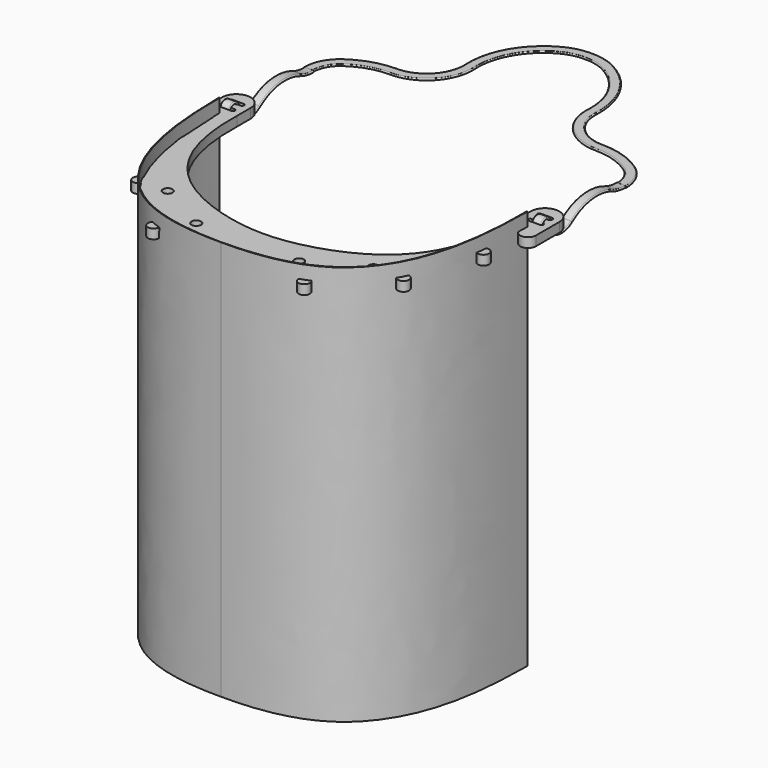
from build123d import *

# Parameters (mm, degrees)
PAD002_DEPTH    = 210
PAD_DEPTH       = 5.0038
POCKET_DEPTH    = 5.0048
SKETCH137_R     = 3
PAD003_DEPTH    = 5.0038
SKETCH_R        = 2.5
POCKET001_DEPTH = 5.0048


with BuildPart() as body002:
    # Sketch140 → Pad002 (new body)
    with BuildSketch(Plane.XY):
        with BuildLine():
            Line((-81, 99.342728), (-80.626823, 99.342728))
            add(Edge.make_bspline(
                [(-80.626823, 99.342728), (-80.850729, 69.137091), (-77.239233, 38.134273), (-65.453101, 12.273247), (-44.560585, 0), (0, -0.267526)],
                knots=[0, 0, 0, 0, 0, 0, 1, 1, 1, 1, 1, 1], degree=5))
            Line((0, -0.267526), (0, -0.467526))
            add(Edge.make_bspline(
                [(-81, 99.342728), (-80.7194, 75), (-76.49971, 47.584915), (-65, 24), (-48.451324, 8), (-24.26185, 0.239096), (-7.207305, -0.527014), (0, -0.467526)],
                knots=[0, 0, 0, 0, 0.2, 0.4, 0.6, 0.8, 1, 1, 1, 1], degree=3))
        make_face()
    extrude(amount=-PAD002_DEPTH)


with BuildPart() as body002_1:
    # Body002 placement: moved
    add(body002.part.moved(Location((0, 0, 12))))


with BuildPart() as fusion001:
    # Part__Mirroring001: instance of Body002
    add(body002_1.part.mirror(Plane(origin=(0, 0, 0), x_dir=(0, -1, 0), z_dir=(1, 0, 0))))

    # Fusion001: union Body002
    add(body002_1.part)


with BuildPart() as body:
    # Sketch135 → Pad (new body)
    with BuildSketch(Plane.XY):
        with BuildLine():
            add(Edge.make_bspline(
                [(-73.5, 101.839707), (-74.771, 49.44), (-49.529, 37.339707), (-22.686, 26.780106), (0, 26.839707)],
                knots=[0, 0, 0, 0, 0, 1, 1, 1, 1, 1], degree=4))
            Line((0, 26.839707), (0, 0))
            add(Edge.make_bspline(
                [(0, 0), (-24.669, -0.204), (-39, 6.04)],
                knots=[0, 0, 0, 1, 1, 1], degree=2))
            add(Edge.make_bspline(
                [(-39, 6.04), (-72.6, 18.986), (-79.11, 71.198)],
                knots=[0, 0, 0, 1, 1, 1], degree=2))
            add(Edge.make_bspline(
                [(-79.11, 71.198), (-80.407, 95.361753)],
                knots=[0, 0, 1, 1], degree=1))
            ThreePointArc((-80.407, 95.361753), (-84.471, 91.297753), (-88.535, 95.361753))
            Line((-88.535, 95.361753), (-88.535, 110.839707))
            ThreePointArc((-88.535, 110.839707), (-81.0175, 118.357207), (-73.5, 110.839707))
            Line((-73.5, 110.839707), (-73.5, 101.839707))
        make_face()
    extrude(amount=PAD_DEPTH)

    # Sketch136 (on Face11 of Pad) → Pocket (cut, through all)
    with BuildSketch(Plane.XY.offset(5.0038)):
        with BuildLine():
            ThreePointArc((-84.0175, 111.839707), (-85.0175, 110.839707), (-84.0175, 109.839707))
            Line((-84.0175, 109.839707), (-78.0175, 109.839707))
            ThreePointArc((-78.0175, 109.839707), (-77.0175, 110.839707), (-78.0175, 111.839707))
            Line((-84.0175, 111.839707), (-78.0175, 111.839707))
        make_face()
        with BuildLine():
            ThreePointArc((-84.0175, 105.839707), (-85.0175, 104.839707), (-84.0175, 103.839707))
            Line((-84.0175, 103.839707), (-78.0175, 103.839707))
            ThreePointArc((-78.0175, 103.839707), (-77.0175, 104.839707), (-78.0175, 105.839707))
            Line((-84.0175, 105.839707), (-78.0175, 105.839707))
        make_face()
    extrude(amount=-POCKET_DEPTH, mode=Mode.SUBTRACT)

    # Sketch137 → Pad003 (join)
    with BuildSketch(Plane.XY.offset(5.0038)):
        with Locations((-39.549752, 4.644374)):
            Circle(SKETCH137_R)
        with Locations((-80.589428, 70.950429)):
            Circle(SKETCH137_R)
        with Locations((-69.533947, 32.279444)):
            Circle(SKETCH137_R)
    extrude(amount=-PAD003_DEPTH)

    # Sketch (on Face22 of Pad003) → Pocket001 (cut, through all)
    with BuildSketch(Plane.XY.offset(5.0038)):
        with Locations((-27, 17)):
            Circle(SKETCH_R)
        with Locations((-54, 32)):
            Circle(SKETCH_R)
    extrude(amount=-POCKET001_DEPTH, mode=Mode.SUBTRACT)


with BuildPart() as fusion:
    # Part__Mirroring: instance of Body
    add(body.part.mirror(Plane(origin=(0, 0, 0), x_dir=(0, -1, 0), z_dir=(1, 0, 0))))

    # Fusion: union Body
    add(body.part)


with BuildPart() as body003:
    # AdditivePipe: sweep along a path in Sketch141
    with BuildLine(Plane.YZ.offset(-82)) as additivepipe_path:
        Line((104.5, -3.5), (104.5, 3.5))
        ThreePointArc((104.5, 3.5), (107.5, 6.5), (110.5, 3.5))
        Line((110.5, 3.5), (110.5, 0.299847))
        ThreePointArc((110.5, 0.299847), (110.872818, -1.164335), (111.900472, -2.271921))
        ThreePointArc((111.900472, -2.271921), (118.190814, -3.992984), (124.326369, -1.782683))
        ThreePointArc((124.326369, -1.782683), (137.427127, 3.583211), (151.449307, 1.63356))
        ThreePointArc((151.449307, 1.63356), (155.472763, 0.39361), (159.664511, 0))
    # Sketch143 → AdditivePipe (sweep)
    with BuildSketch(Plane.XY):
        with BuildLine():
            ThreePointArc((-83.890842, 105.010963), (-84.390842, 104.510963), (-83.890842, 104.010963))
            Line((-83.890842, 104.010963), (-79.890842, 104.010963))
            ThreePointArc((-79.890842, 104.010963), (-79.390842, 104.510963), (-79.890842, 105.010963))
            Line((-83.890842, 105.010963), (-79.890842, 105.010963))
        make_face()
    sweep(path=additivepipe_path.line)

    # AdditivePipe001: sweep along a path in Sketch142
    with BuildLine(Plane.XY) as additivepipe001_path:
        ThreePointArc((-82, 159.645488), (-80.169117, 167.194495), (-75.083323, 173.065981))
        ThreePointArc((-75.083323, 173.065981), (-65.082635, 178.064397), (-54.031966, 179.761635))
        ThreePointArc((-54.031966, 179.761635), (-37.934001, 186.62925), (-31.85419, 203.04097))
        ThreePointArc((-31.85419, 203.04097), (-26.93923, 223.335435), (-11.728597, 237.641335))
        ThreePointArc((-11.728597, 237.641335), (-6.026164, 239.678215), (0, 240.271477))
    # Sketch144 → AdditivePipe001 (sweep)
    with BuildSketch(Plane.YZ):
        with BuildLine():
            ThreePointArc((238.5, 0.5), (238, 0), (238.5, -0.5))
            Line((238.5, -0.5), (242.5, -0.5))
            ThreePointArc((242.5, -0.5), (243, 0), (242.5, 0.5))
            Line((238.5, 0.5), (242.5, 0.5))
        make_face()
    sweep(path=additivepipe001_path.line)


with BuildPart() as fusion002:
    # Part__Mirroring002: instance of Body003
    add(body003.part.mirror(Plane(origin=(0, 0, 0), x_dir=(0, -1, 0), z_dir=(1, 0, 0))))

    # Fusion002: union Body003
    add(body003.part)


solid = Compound([fusion001.part, fusion.part, fusion002.part])
